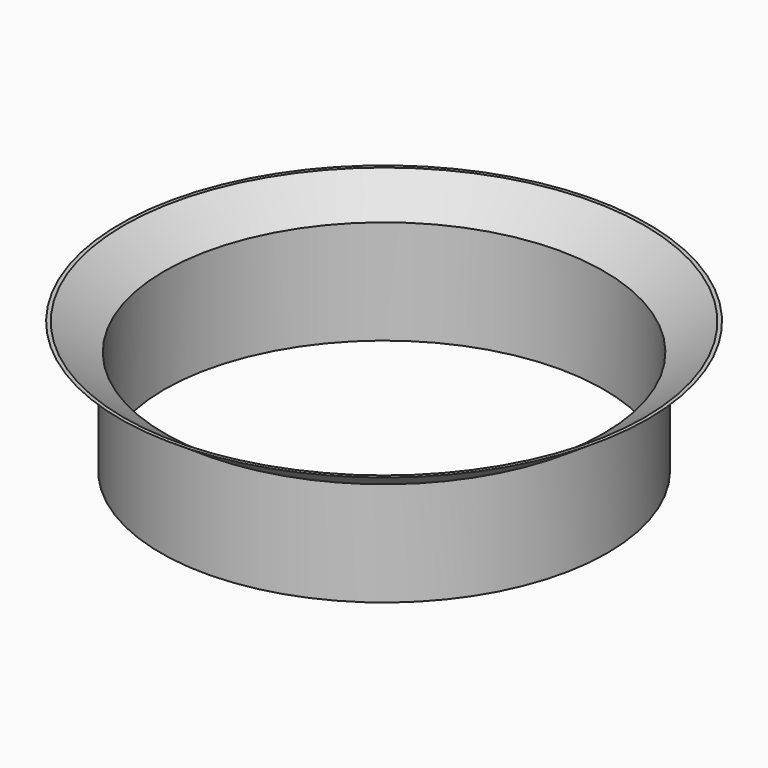
from build123d import *

# Parameters (mm, degrees)
CYLINDER001_R     = 21.1
CYLINDER001_DEPTH = 10
CYLINDER_R        = 21.45
CYLINDER_DEPTH    = 10


with BuildPart() as cylinder001:
    # Cylinder001 → Cylinder001 (new body)
    with BuildSketch(Plane.XY):
        Circle(CYLINDER001_R)
    extrude(amount=CYLINDER001_DEPTH)


with BuildPart() as cut:
    # Cylinder → Cylinder (new body)
    with BuildSketch(Plane.XY):
        Circle(CYLINDER_R)
    extrude(amount=CYLINDER_DEPTH)

    # Cut: cut Cylinder001
    add(cylinder001.part, mode=Mode.SUBTRACT)


with BuildPart() as cone001:
    # Cone001 → Cone001 (revolve)
    with BuildSketch(Plane(origin=(0, 0, 10), x_dir=(1, 0, 0), z_dir=(0, -1, 0))):
        Polygon((0, 0), (21.1, 0), (25, 2.6), (0, 2.6), align=None)
    revolve(axis=Axis((0, 0, 10), (0, 0, 1)))


with BuildPart() as cut001:
    # Cone → Cone (revolve)
    with BuildSketch(Plane(origin=(0, 0, 10), x_dir=(1, 0, 0), z_dir=(0, -1, 0))):
        Polygon((0, 0), (21.45, 0), (25.35, 2.6), (0, 2.6), align=None)
    revolve(axis=Axis((0, 0, 10), (0, 0, 1)))

    # Cut001: cut Cone001
    add(cone001.part, mode=Mode.SUBTRACT)


solid = Compound([cut.part, cut001.part])
